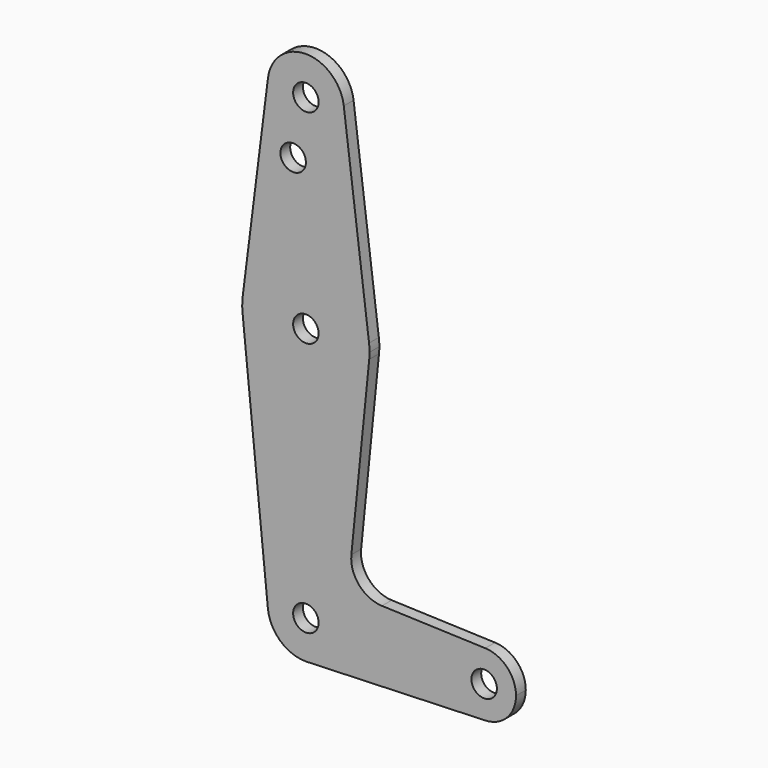
from build123d import *

# Parameters (mm, degrees)
F0_R     = 3.175
F1_DEPTH = 3.048


with BuildPart() as f1:
    # F0 (on Front) → F1 (new body)
    with BuildSketch(Plane.XZ):
        with BuildLine():
            ThreePointArc((15.795426, -1.5875), (15.855094, -0.794747), (15.875, 0))
            ThreePointArc((15.875, 0), (15.843841, 0.994139), (15.750488, 1.984375))
            ThreePointArc((15.750488, 1.984375), (0, 15.875), (-15.750488, 1.984375))
            ThreePointArc((-15.750488, 1.984375), (-15.873744, 0.199705), (-15.795426, -1.5875))
            ThreePointArc((-15.795426, -1.5875), (0, -15.875), (15.795426, -1.5875))
        make_face()
        Circle(F0_R, mode=Mode.SUBTRACT)
        with BuildLine():
            ThreePointArc((-15.750488, 1.984375), (0, 15.875), (15.750488, 1.984375))
            Line((15.750488, 1.984375), (9.450293, 51.990625))
            ThreePointArc((9.450293, 51.990625), (9.506305, 51.396483), (9.525, 50.8))
            ThreePointArc((9.525, 50.8), (-0.596483, 41.293695), (-9.450293, 51.990625))
            Line((-9.450293, 51.990625), (-15.750488, 1.984375))
        make_face()
        with Locations((-3.175, 36.5252)):
            Circle(F0_R, mode=Mode.SUBTRACT)
        with BuildLine():
            Line((11.340836, -45.910108), (15.795426, -1.5875))
            ThreePointArc((15.795426, -1.5875), (0, -15.875), (-15.795426, -1.5875))
            Line((-15.795426, -1.5875), (-9.477255, -64.4525))
            ThreePointArc((-9.477255, -64.4525), (-0.476848, -53.986944), (9.525, -63.5))
            ThreePointArc((9.525, -63.5), (6.970557, -69.991299), (0.677344, -73.000886))
            Line((0.677344, -73.000886), (44.732405, -71.432475))
            ThreePointArc((44.732405, -71.432475), (36.5125, -63.5), (44.732405, -55.567525))
            Line((44.732405, -55.567525), (18.968328, -54.650294))
            ThreePointArc((18.968328, -54.650294), (13.261204, -51.932537), (11.340836, -45.910108))
        make_face()
        with BuildLine():
            ThreePointArc((9.525, 50.8), (9.506305, 51.396483), (9.450293, 51.990625))
            ThreePointArc((9.450293, 51.990625), (0, 60.325), (-9.450293, 51.990625))
            ThreePointArc((-9.450293, 51.990625), (-0.596483, 41.293695), (9.525, 50.8))
        make_face()
        with Locations((0, 50.8)):
            Circle(F0_R, mode=Mode.SUBTRACT)
        with BuildLine():
            ThreePointArc((9.525, -63.5), (-0.476848, -53.986944), (-9.477255, -64.4525))
            ThreePointArc((-9.477255, -64.4525), (-6.389564, -70.563929), (0, -73.025))
            Line((0, -73.025), (0.677344, -73.000886))
            ThreePointArc((0.677344, -73.000886), (6.970557, -69.991299), (9.525, -63.5))
        make_face()
        with Locations((0, -63.5)):
            Circle(F0_R, mode=Mode.SUBTRACT)
        with BuildLine():
            Line((0.677344, -73.000886), (0, -73.025))
            ThreePointArc((0, -73.025), (0.338886, -73.01897), (0.677344, -73.000886))
        make_face()
        with BuildLine():
            ThreePointArc((52.3875, -63.5), (50.161633, -57.98809), (44.732405, -55.567525))
            ThreePointArc((44.732405, -55.567525), (36.5125, -63.5), (44.732405, -71.432475))
            ThreePointArc((44.732405, -71.432475), (50.161633, -69.01191), (52.3875, -63.5))
        make_face()
        with Locations((44.45, -63.5)):
            Circle(F0_R, mode=Mode.SUBTRACT)
    extrude(amount=F1_DEPTH)


solid = f1.part
